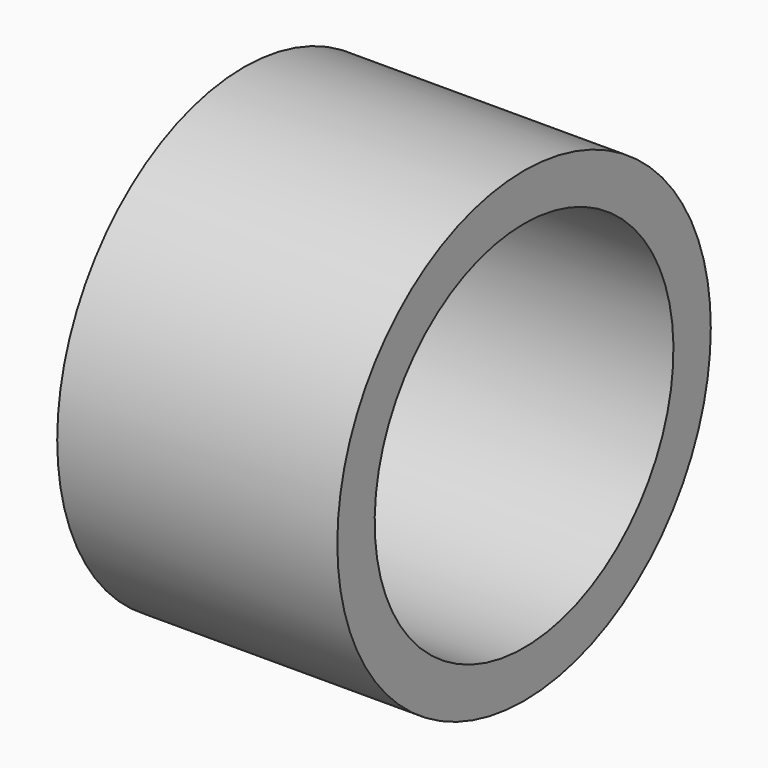
from build123d import *

# Parameters (mm, degrees)
F0_W = 3
F0_H = 1


with BuildPart() as f1:
    # F0 (on Front) → F1 (revolve)
    with BuildSketch(Plane.XZ):
        with Locations((-1.5, 4.5)):
            Rectangle(F0_W, F0_H)
        with Locations((1.5, 4.5)):
            Rectangle(F0_W, F0_H)
    revolve(axis=Axis((3.925161, 0, 0), (1, 0, 0)))


solid = f1.part
